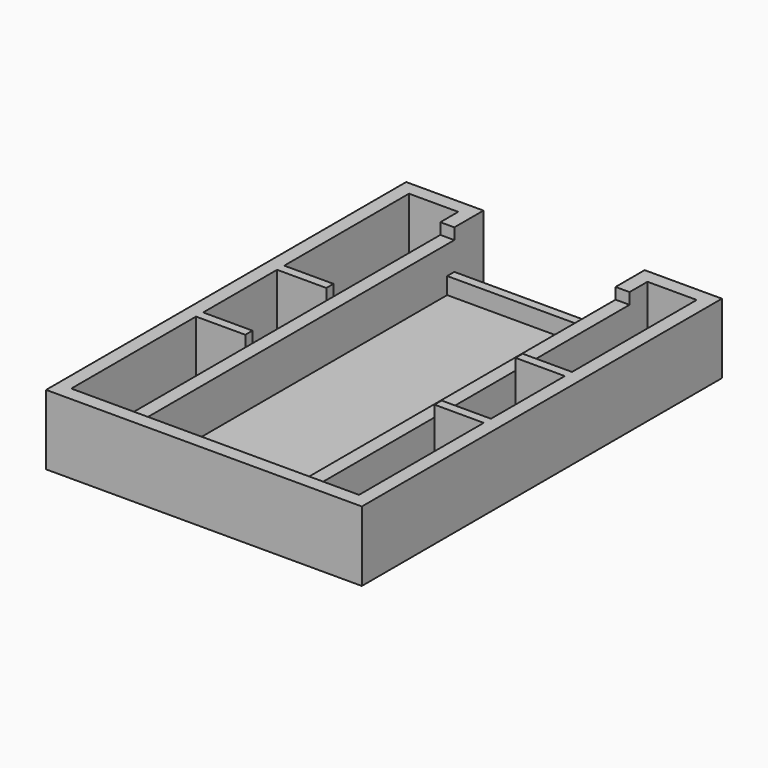
from build123d import *

# Parameters (mm, degrees)
F0_W      = 35.814
F0_H      = 51.054
F1_DEPTH  = 7.9375
F2_W      = 5.588
F2_H      = 17.68475
F2_H_2    = 10.4775
F3_DEPTH  = 25.4
F5_DEPTH  = 1.27
F6_W      = 18.288
F6_H      = 44.323
F7_DEPTH  = 5.08
F8_W      = 18.288
F8_H      = 4.1275
F9_DEPTH  = 25.4
F10_W     = 18.288
F10_H     = 1.016
F11_DEPTH = 3.175


with BuildPart() as f1:
    # F0 (on Top) → F1 (new body)
    with BuildSketch(Plane.XY):
        with Locations((0.853188, 7.523157)):
            Rectangle(F0_W, F0_H)
    extrude(amount=F1_DEPTH)

    # F2 (on face) → F3 (cut)
    with BuildSketch(Plane.XY.offset(7.9375)):
        with Locations((-12.672312, 22.620282)):
            Rectangle(F2_W, F2_H)
        with Locations((-12.672312, 7.523157)):
            Rectangle(F2_W, F2_H_2)
        with Locations((-12.672312, -7.573968)):
            Rectangle(F2_W, F2_H)
        with Locations((14.378688, -7.573968)):
            Rectangle(F2_W, F2_H)
        with Locations((14.378688, 7.523157)):
            Rectangle(F2_W, F2_H_2)
        with Locations((14.378688, 22.620282)):
            Rectangle(F2_W, F2_H)
    extrude(amount=-F3_DEPTH, mode=Mode.SUBTRACT)

    # F4 (on face) → F5 (cut)
    with BuildSketch(Plane.XY.offset(7.9375)):
        Polygon((11.584688, 28.922657), (-9.878312, 28.922657), (-9.878312, 13.777907), (-9.878312, 12.761907), (-9.878312, 2.284407), (-9.878312, 1.268407), (-9.878312, -16.416343), (11.584688, -16.416343), (11.584688, 1.268407), (11.584688, 2.284407), (11.584688, 12.761907), (11.584688, 13.777907), align=None)
    extrude(amount=-F5_DEPTH, mode=Mode.SUBTRACT)

    # F6 (on face) → F7 (cut)
    with BuildSketch(Plane.XY.offset(6.6675)):
        with Locations((0.853188, 5.745157)):
            Rectangle(F6_W, F6_H)
    extrude(amount=-F7_DEPTH, mode=Mode.SUBTRACT)

    # F8 (on face) → F9 (cut)
    with BuildSketch(Plane.XY.offset(7.9375)):
        with Locations((0.853188, 30.986407)):
            Rectangle(F8_W, F8_H)
    extrude(amount=-F9_DEPTH, mode=Mode.SUBTRACT)

    # F10 (on face) → F11 (cut)
    with BuildSketch(Plane.XY.offset(6.6675)):
        with Locations((0.853188, 28.414657)):
            Rectangle(F10_W, F10_H)
    extrude(amount=-F11_DEPTH, mode=Mode.SUBTRACT)


solid = f1.part
